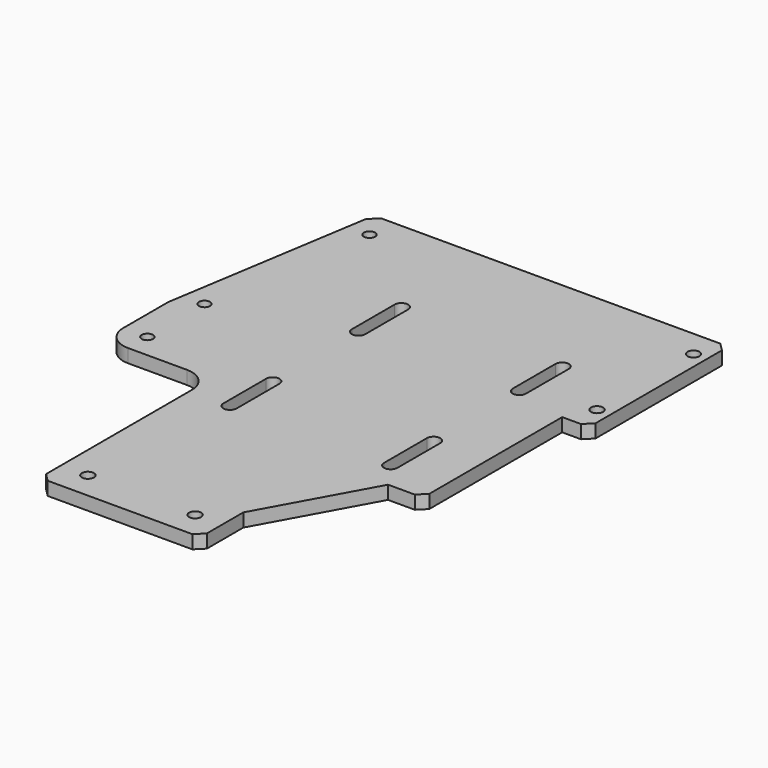
from build123d import *

# Parameters (mm, degrees)
SKETCH039_R             = 2.25
PAD020_DEPTH            = 5
FILLET008_R             = 9
CHAMFER018_SIZE         = 3
SKETCH047_R             = 2.1
POCKET026_DEPTH         = 5.001
BODY013_PLACEMENT_ANGLE = 180


with BuildPart() as part:
    # Sketch039 → Pad020 (new body)
    with BuildSketch(Plane.XY):
        Polygon((100, -10), (100, 70), (140, 70), (140, 100), (127.28, 180), (-5, 180), (-5, 115), (5, 115), (5, 50), (18, 50), (40, 10), (40, -10), align=None)
        with Locations((90, 0)):
            Circle(SKETCH039_R, mode=Mode.SUBTRACT)
        with Locations((50, 0)):
            Circle(SKETCH039_R, mode=Mode.SUBTRACT)
        with Locations((0, 125)):
            Circle(SKETCH039_R, mode=Mode.SUBTRACT)
        with Locations((0, 170)):
            Circle(SKETCH039_R, mode=Mode.SUBTRACT)
    extrude(amount=-PAD020_DEPTH)

    # Fillet008
    fillet008_edges = [part.edges().sort_by_distance(p)[0] for p in [
        (100, 70, -2.5),
        (140, 70, -2.5),
    ]]
    fillet(fillet008_edges, radius=FILLET008_R)

    # Chamfer018
    chamfer018_edges = [part.edges().sort_by_distance(p)[0] for p in [
        (-5, 115, -2.5),
        (5, 50, -2.5),
        (-5, 180, -2.5),
        (127.28, 180, -2.5),
        (100, -10, -2.5),
        (40, -10, -2.5),
    ]]
    chamfer(chamfer018_edges, length=CHAMFER018_SIZE)

    # Sketch047 (on Face2 of Chamfer018) → Pocket026 (cut, through all)
    with BuildSketch(Plane.XY):
        with Locations((120.793214, 169.850903)):
            Circle(SKETCH047_R)
        with Locations((131, 79)):
            Circle(SKETCH047_R)
        with Locations((131, 105.657278)):
            Circle(SKETCH047_R)
        with BuildLine():
            ThreePointArc((27.5, 80), (25, 82.5), (22.5, 80))
            Line((22.5, 80), (22.5, 60))
            ThreePointArc((22.5, 60), (25, 57.5), (27.5, 60))
            Line((27.5, 60), (27.5, 80))
        make_face()
        with BuildLine():
            ThreePointArc((87.5, 80), (85, 82.5), (82.5, 80))
            Line((82.5, 80), (82.5, 60))
            ThreePointArc((82.5, 60), (85, 57.5), (87.5, 60))
            Line((87.5, 60), (87.5, 80))
        make_face()
        with BuildLine():
            ThreePointArc((27.5, 140), (25, 142.5), (22.5, 140))
            Line((22.5, 140), (22.5, 120))
            ThreePointArc((22.5, 120), (25, 117.5), (27.5, 120))
            Line((27.5, 120), (27.5, 140))
        make_face()
        with BuildLine():
            ThreePointArc((87.5, 140), (85, 142.5), (82.5, 140))
            Line((82.5, 140), (82.5, 120))
            ThreePointArc((82.5, 120), (85, 117.5), (87.5, 120))
            Line((87.5, 120), (87.5, 140))
        make_face()
    extrude(amount=-POCKET026_DEPTH, mode=Mode.SUBTRACT)


with BuildPart() as part_1:
    # Body013 placement: moved
    add(part.part.moved(Location((0, 0, -42.3))).rotate(Axis((0, 0, -42.3), (0, 1, 0)), BODY013_PLACEMENT_ANGLE))


solid = part_1.part
